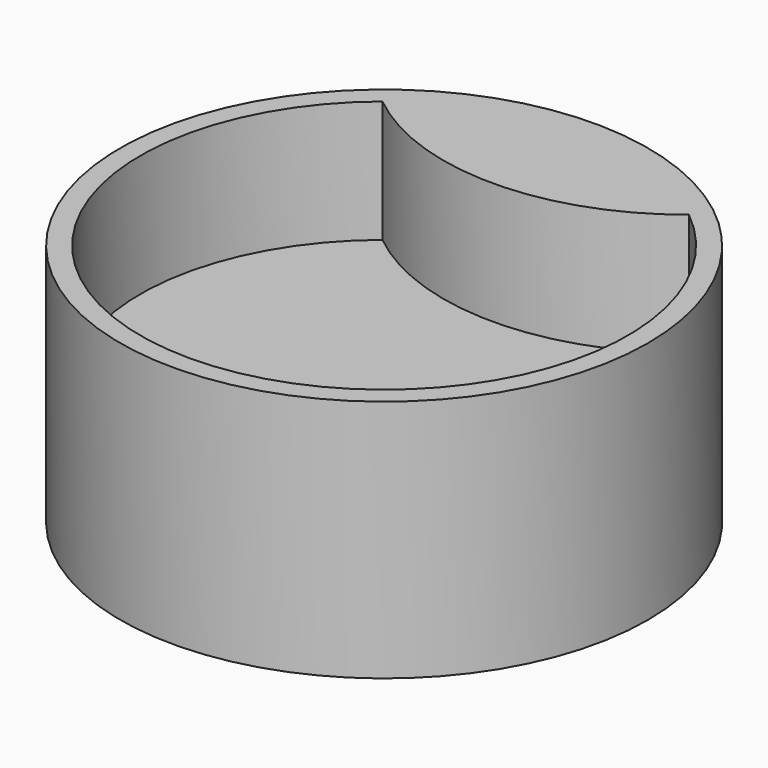
from build123d import *

# Parameters (mm, degrees)
F0_R     = 65
F1_DEPTH = 60
F3_DEPTH = 30


with BuildPart() as f1:
    # F0 (on Top) → F1 (new body)
    with BuildSketch(Plane.XY):
        Circle(F0_R)
    extrude(amount=F1_DEPTH)

    # F2 (on face) → F3 (cut)
    with BuildSketch(Plane.XY.offset(60)):
        with BuildLine():
            ThreePointArc((37.732191, 46.650635), (0, 33.30127), (-37.732191, 46.650635))
            ThreePointArc((-37.732191, 46.650635), (0, -60), (37.732191, 46.650635))
        make_face()
    extrude(amount=-F3_DEPTH, mode=Mode.SUBTRACT)


solid = f1.part
